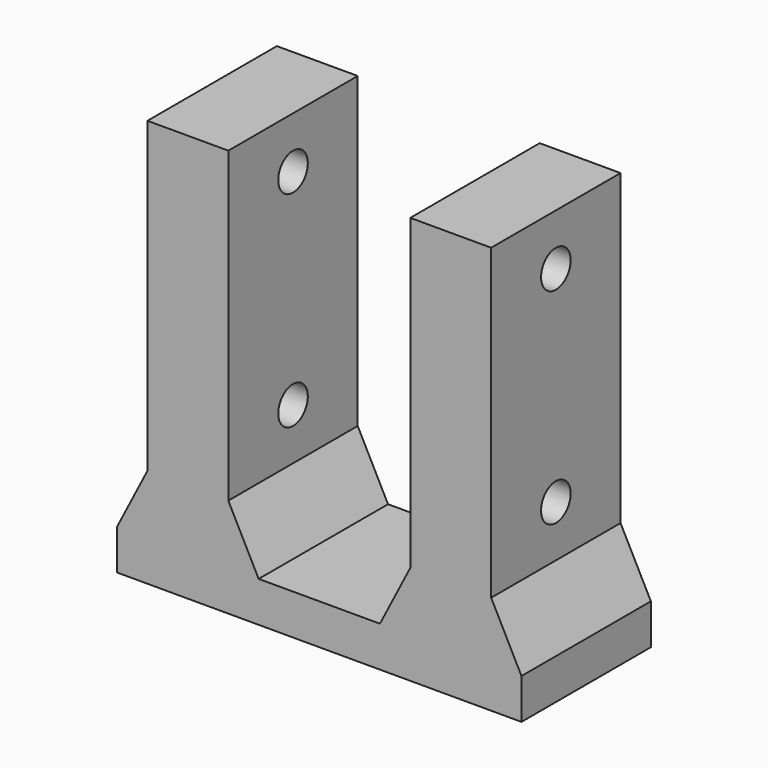
from build123d import *

# Parameters (mm, degrees)
F0_W      = 50
F0_H      = 20
F1_DEPTH  = 5
F2_W      = 17.5
F2_H      = 20
F3_DEPTH  = 20
F3_FACE_W = 17.5
F3_FACE_H = 20
F4_DEPTH  = 25.4
F5_R      = 2.286
F6_DEPTH  = 50.001
F8_DEPTH  = 20.001


with BuildPart() as f1:
    # F0 (on Top) → F1 (new body)
    with BuildSketch(Plane.XY):
        Rectangle(F0_W, F0_H)
    extrude(amount=F1_DEPTH)

    # F2 (on face) → F3 (join)
    with BuildSketch(Plane.XY.offset(5)):
        with Locations((16.25, 0)):
            Rectangle(F2_W, F2_H)
        with Locations((-16.25, 0)):
            Rectangle(F2_W, F2_H)
    extrude(amount=F3_DEPTH)

    # F3_face (on face) → F4 (join)
    with BuildSketch(Plane(origin=(16.25, 0, 25), x_dir=(1, 0, 0), z_dir=(0, 0, 1))):
        Rectangle(F3_FACE_W, F3_FACE_H)
        with Locations((-32.5, 0)):
            Rectangle(F3_FACE_W, F3_FACE_H)
    extrude(amount=F4_DEPTH)

    # F5 (on face) → F6 (cut, through all)
    with BuildSketch(Plane.YZ.offset(25)):
        with Locations((0, 44.05)):
            Circle(F5_R)
        with Locations((0, 18.65)):
            Circle(F5_R)
    extrude(amount=-F6_DEPTH, mode=Mode.SUBTRACT)

    # F7 (on face) → F8 (cut, through all)
    with BuildSketch(Plane.XZ.offset(10)):
        Polygon((-25, 50.4), (-25, 5), (-21.25, 12.3), (-21.25, 50.4), align=None)
        Polygon((-11.25, 12.3), (-7.5, 5), (-7.5, 50.4), (-11.25, 50.4), align=None)
        Polygon((7.5, 50.4), (7.5, 5), (11.25, 12.3), (11.25, 50.4), align=None)
        Polygon((21.25, 12.3), (25, 5), (25, 50.4), (21.25, 50.4), align=None)
    extrude(amount=-F8_DEPTH, mode=Mode.SUBTRACT)


solid = f1.part
